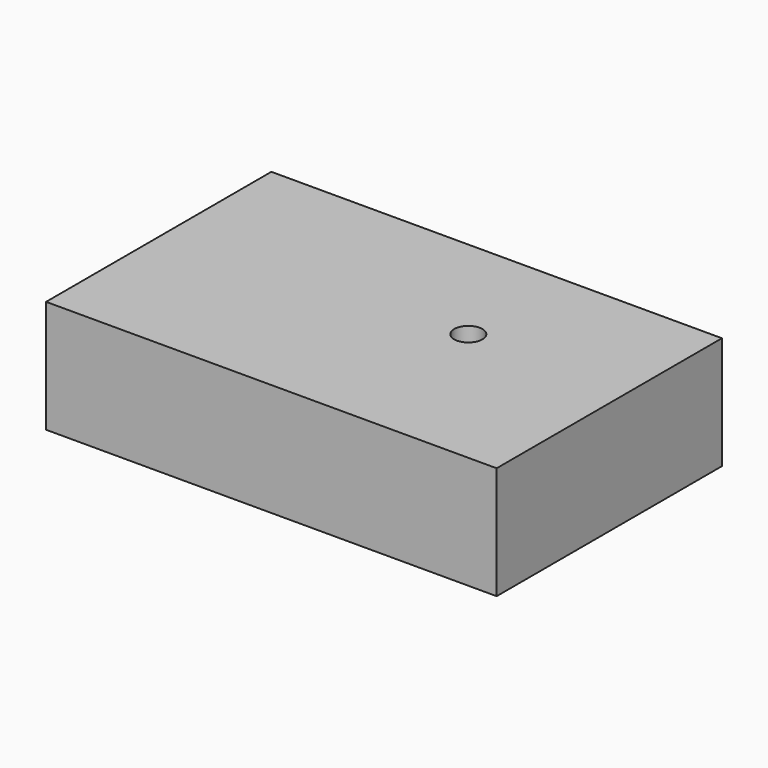
from build123d import *

# Parameters (mm, degrees)
F0_W     = 101.6
F0_H     = 63.5
F1_DEPTH = 12.7
F3_D     = 6.35
F3_DEPTH = 12.7
F3_TIP   = 1.9077324654


with BuildPart() as f1:
    # F0 (on Top) → F1 (new body, symmetric)
    with BuildSketch(Plane.XY):
        with Locations((-3.2511992931, 5.3847999424)):
            Rectangle(F0_W, F0_H)
    extrude(amount=F1_DEPTH, both=True)

    # F3
    with Locations(Plane.XY.offset(12.7)):
        with Locations((11.7148924619, 10.4393409565)):
            Hole(F3_D / 2, depth=F3_DEPTH)
            with Locations((0, 0, -(F3_DEPTH + F3_TIP / 2))):  # 118° drill point
                Cone(0, F3_D / 2, F3_TIP, mode=Mode.SUBTRACT)


solid = f1.part
